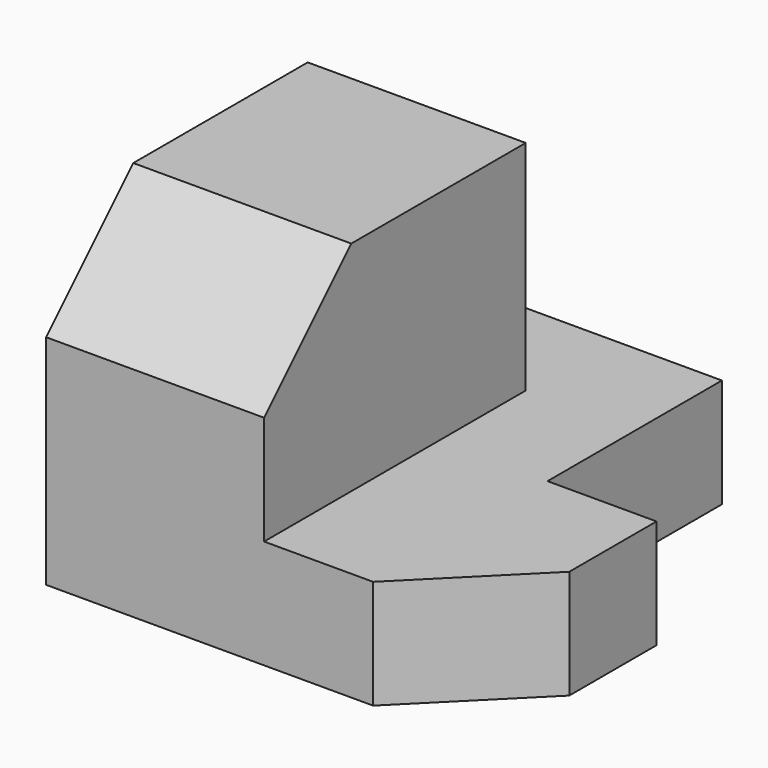
from build123d import *

# Parameters (mm, degrees)
F0_W      = 1016
F0_H      = 762
F1_DEPTH  = 1016
F2_W      = 254
F2_H      = 508
F3_DEPTH  = 762
F5_DEPTH  = 508
F7_DEPTH  = 762
F8_DEPTH  = 508
F10_DEPTH = 1016


with BuildPart() as f1:
    # F0 (on Front) → F1 (new body)
    with BuildSketch(Plane.XZ):
        with Locations((38.2611141601, 22.9585352354)):
            Rectangle(F0_W, F0_H)
    extrude(amount=F1_DEPTH)

    # F2 (on face) → F3 (cut)
    with BuildSketch(Plane.XY.offset(403.9585352354)):
        with Locations((419.2611141601, -254)):
            Rectangle(F2_W, F2_H)
    extrude(amount=-F3_DEPTH, mode=Mode.SUBTRACT)

    # F4 (on face) → F5 (cut)
    with BuildSketch(Plane.XY.offset(403.9585352354)):
        Polygon((-469.7388858399, 0), (-469.7388858399, -254), (38.2611141601, -254), (38.2611141601, -1016), (292.2611141601, -1016), (292.2611141601, -762), (546.2611141601, -762), (546.2611141601, -508), (292.2611141601, -508), (292.2611141601, 0), align=None)
    extrude(amount=-F5_DEPTH, mode=Mode.SUBTRACT)

    # F6 (on face) → F7 (cut)
    with BuildSketch(Plane.XY.offset(403.9585352354)):
        Polygon((546.2611141601, -1016), (546.2611141601, -762), (292.2611141601, -1016), align=None)
    extrude(amount=-F7_DEPTH, mode=Mode.SUBTRACT)

    # F8 (cut): a face of the model
    f8_faces = [f1.faces().sort_by_distance(p)[0] for p in [
        (376.9277808268, -846.6666666667, 403.9585352354),
    ]]
    extrude(f8_faces, amount=-F8_DEPTH, mode=Mode.SUBTRACT)

    # F9 (on face) → F10 (cut)
    with BuildSketch(Plane(origin=(-469.7388858399, 0, 0), x_dir=(0, -1, 0), z_dir=(-1, 0, 0))):
        Polygon((1016, 403.9585352354), (762, 403.9585352354), (1016, 149.9585352354), align=None)
    extrude(amount=-F10_DEPTH, mode=Mode.SUBTRACT)


solid = f1.part
